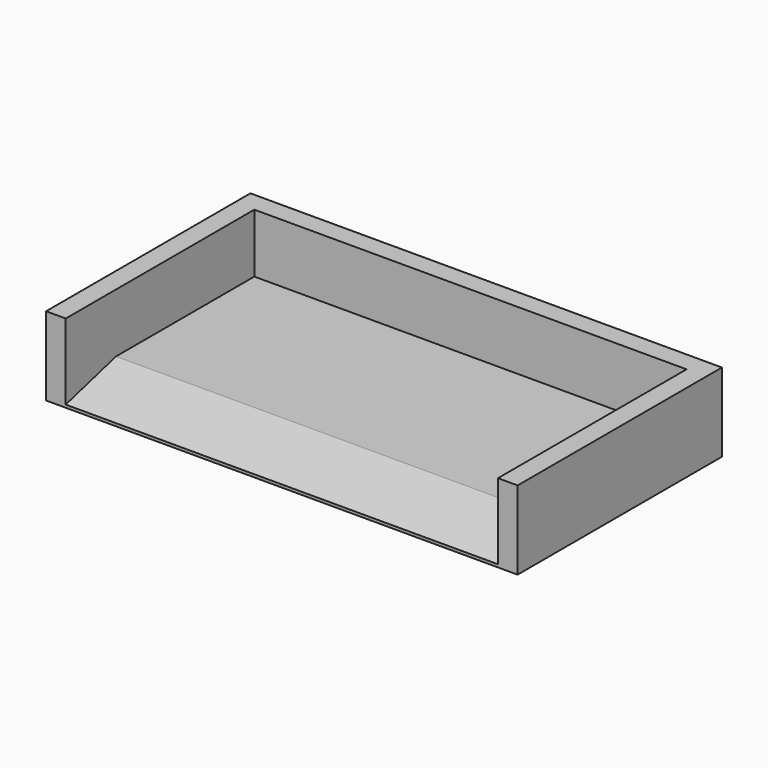
from build123d import *

# Parameters (mm, degrees)
F1_DEPTH = 76.2
F2_SIZE2 = 5.444728
F2_SIZE  = 20.32
F3_W     = 152.4
F3_H     = 25.4
F4_DEPTH = 6.35


with BuildPart() as f1:
    # F0 (on Front) → F1 (new body)
    with BuildSketch(Plane.XZ):
        Polygon((69.85, -12.7), (76.2, -12.7), (76.2, 12.7), (69.85, 12.7), (69.85, -6.35), (-69.85, -6.35), (-69.85, 12.7), (-76.2, 12.7), (-76.2, -6.35), (-76.2, -12.7), align=None)
    extrude(amount=F1_DEPTH)

    # F2
    f2_edges = [f1.edges().sort_by_distance(p)[0] for p in [
        (0, -76.2, -6.35),
    ]]
    chamfer(f2_edges, length=F2_SIZE, length2=F2_SIZE2)

    # F3 (on Front) → F4 (join)
    with BuildSketch(Plane.XZ):
        Rectangle(F3_W, F3_H)
    extrude(amount=-F4_DEPTH)


solid = f1.part
